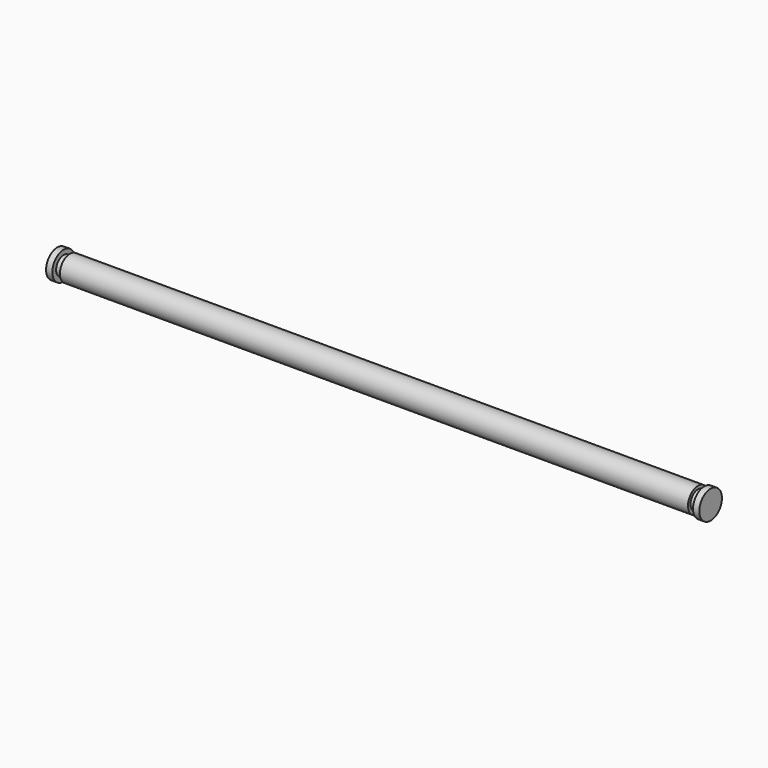
from build123d import *

# Parameters (mm, degrees)
F0_R     = 4
F1_DEPTH = 100
F2_R     = 3
F3_DEPTH = 2
F4_R     = 4.5
F4_R_2   = 3
F5_DEPTH = 2


with BuildPart() as f1:
    # F0 (on Right) → F1 (new body)
    with BuildSketch(Plane.YZ):
        Circle(F0_R)
    extrude(amount=F1_DEPTH)

    # F2 (on face) → F3 (join)
    with BuildSketch(Plane.YZ.offset(100)):
        Circle(F2_R)
    extrude(amount=F3_DEPTH)

    # F4 (on face) → F5 (join)
    with BuildSketch(Plane.YZ.offset(102)):
        Circle(F4_R)
        Circle(F4_R_2, mode=Mode.SUBTRACT)
        Circle(F4_R_2)
    extrude(amount=F5_DEPTH)

    # F6: F1 across plane


with BuildPart() as f1_1:
    add(f1.part)
    add(f1.part.mirror(Plane.YZ))


solid = f1_1.part
